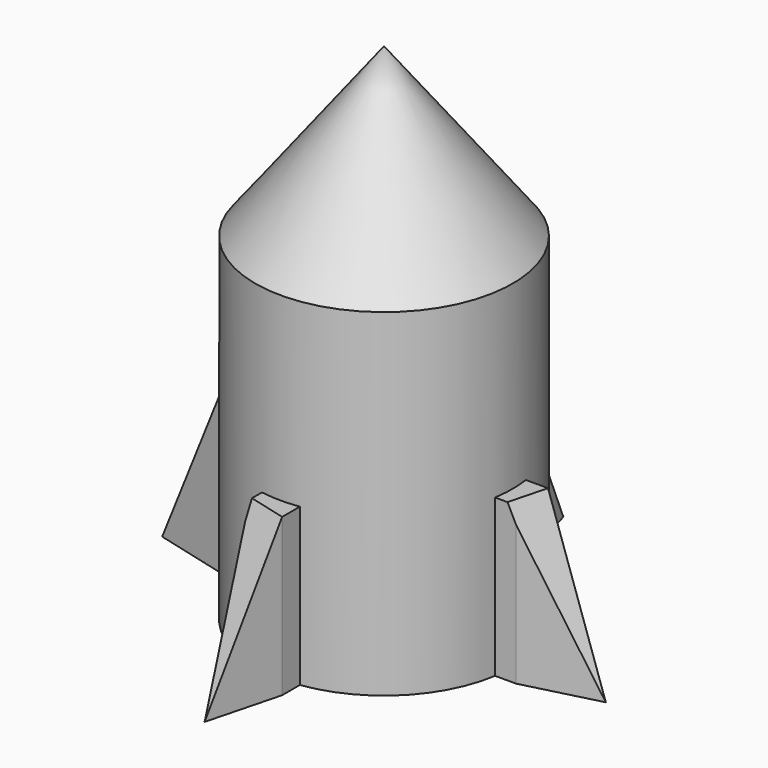
from build123d import *

# Parameters (mm, degrees)
F3_DEPTH = 23.622
F5_DEPTH = 267.208
F7_COUNT = 4


with BuildPart() as f1:
    # F0 (on Front) → F1 (revolve)
    with BuildSketch(Plane.XZ):
        Polygon((-11.43, -11.5434539532), (-11.43, 13.8565460468), (-11.43, 39.2565460468), (0, 39.2565460468), (0, 64.4025460468), (-19.3840445728, 39.2565460468), (-19.3840445728, -11.5434539532), align=None)
    revolve(axis=Axis((0, 0, 51.8295460468), (0, 0, 1)))

    # F2 (on face) → F3 (join)
    with BuildSketch(Plane(origin=(0, 0, -11.5434539532), x_dir=(1, 0, 0), z_dir=(0, 0, -1))):
        with BuildLine():
            Line((-2.6940780226, -19.1959143468), (-2.6940780226, -22.5224811584))
            Line((-2.6940780226, -22.5224811584), (0.1769623486, -33.5143171251))
            Line((0.1769623486, -33.5143171251), (3.0480027199, -22.3197587766))
            Line((3.0480027199, -22.3197587766), (3.0480027199, -19.1429063473))
            ThreePointArc((3.0480027199, -19.1429063473), (0.1789361194, -19.3832186663), (-2.6940780226, -19.1959143468))
        make_face()
    extrude(amount=-F3_DEPTH)

    # F4 (on face) → F5 (cut)
    with BuildSketch(Plane(origin=(-8.0291148796, 2.0971849502, 0), x_dir=(-0.2527189829, -0.9675397231, 0), z_dir=(-0.9675397231, 0.2527189829, 0))):
        Polygon((-32.4711548542, -11.5434539532), (-21.1105505247, 12.0785460468), (-32.4711548542, 12.0785460468), align=None)
    extrude(amount=-F5_DEPTH, mode=Mode.SUBTRACT)

    # F7: F1 ×4 about axis
    f7_axis = Axis((0, 0, 24.6183145791), (0, 0, -1))


with BuildPart() as f1_1:
    add(f1.part)
    for i in range(1, F7_COUNT):
        add(f1.part.rotate(f7_axis, i * 360 / F7_COUNT))


solid = f1_1.part
